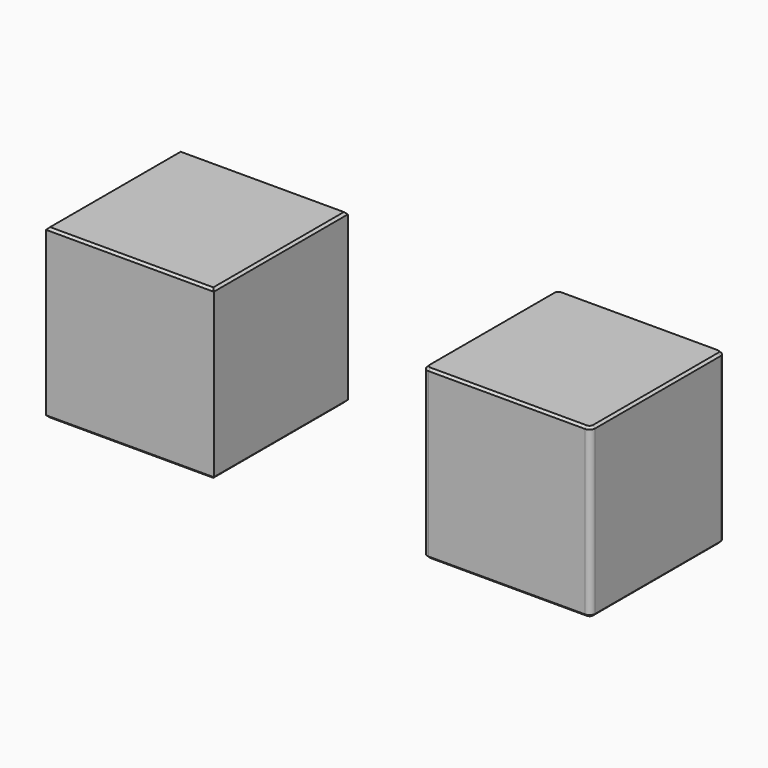
from build123d import *

# Parameters (mm, degrees)
F0_W     = 30
F0_H     = 30
F1_DEPTH = 30
F2_R     = 1
F3_SIZE  = 0.4


with BuildPart() as f1:
    # F0 (on Top) → F1 (new body)
    with BuildSketch(Plane.XY):
        with Locations((67.435756, 0)):
            Rectangle(F0_W, F0_H)
        Rectangle(F0_W, F0_H)
    extrude(amount=F1_DEPTH)

    # F2
    f2_edges = [f1.edges().sort_by_distance(p)[0] for p in [
        (52.435756, -15, 15),
        (82.435756, -15, 15),
        (82.435756, 15, 15),
        (52.435756, 15, 15),
    ]]
    fillet(f2_edges, radius=F2_R)

    # F3
    f3_edges = [f1.edges().sort_by_distance(p)[0] for p in [
        (-15, 0, 30),
        (0, -15, 30),
        (15, 0, 30),
        (0, 15, 30),
        (52.435756, 0, 30),
        (52.72865, 14.707107, 30),
        (52.72865, -14.707107, 30),
        (67.435756, 15, 30),
        (67.435756, -15, 30),
        (82.142863, 14.707107, 30),
        (82.142863, -14.707107, 30),
        (82.435756, 0, 30),
        (52.435756, 0, 0),
        (52.72865, 14.707107, 0),
        (52.72865, -14.707107, 0),
        (67.435756, 15, 0),
        (67.435756, -15, 0),
        (82.142863, 14.707107, 0),
        (82.142863, -14.707107, 0),
        (82.435756, 0, 0),
        (-15, 0, 0),
        (0, -15, 0),
        (15, 0, 0),
        (0, 15, 0),
    ]]
    chamfer(f3_edges, length=F3_SIZE)


solid = f1.part
